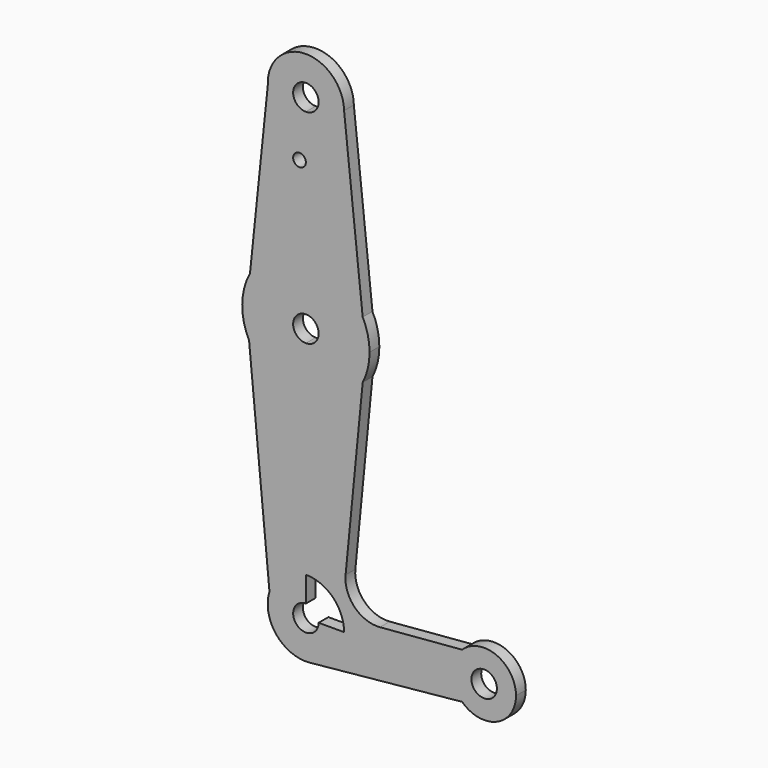
from build123d import *

# Parameters (mm, degrees)
F0_R     = 1.5875
F1_DEPTH = 3.048


with BuildPart() as f1:
    # F0 (on Front) → F1 (new body)
    with BuildSketch(Plane.XZ):
        with BuildLine():
            ThreePointArc((-9.5095663313, 70.0432862662), (-6.5407566171, 63.6611249112), (0, 61.0602947442))
            ThreePointArc((0, 61.0602947442), (6.7351920908, 63.8501026534), (9.525, 70.5852947442))
            ThreePointArc((9.525, 70.5852947442), (9.5245806872, 70.6746688591), (9.5233227858, 70.7640351052))
            ThreePointArc((9.5233227858, 70.7640351052), (-0.3604400536, 80.1034725093), (-9.5095663313, 70.0432862662))
        make_face()
        with BuildLine():
            ThreePointArc((3.175, 70.5852947442), (2.2450640303, 68.3402307139), (0, 67.4102947442))
            ThreePointArc((0, 67.4102947442), (-2.2450640303, 72.8303587744), (3.175, 70.5852947442))
        make_face(mode=Mode.SUBTRACT)
        with BuildLine():
            ThreePointArc((9.525, 70.5852947442), (6.7351920908, 63.8501026534), (0, 61.0602947442))
            Line((0, 61.0602947442), (0, 56.3104947442))
            Line((0, 56.3104947442), (0, 35.6602947442))
            ThreePointArc((0, 35.6602947442), (8.3101303729, 33.311467824), (14.1611668333, 26.9600406573))
            Line((14.1611668333, 26.9600406573), (9.5233227858, 70.7640351052))
            ThreePointArc((9.5233227858, 70.7640351052), (9.5245806872, 70.6746688591), (9.525, 70.5852947442))
        make_face()
        with BuildLine():
            Line((0, 56.3104947442), (0, 61.0602947442))
            ThreePointArc((0, 61.0602947442), (-6.5407566171, 63.6611249112), (-9.5095663313, 70.0432862662))
            Line((-9.5095663313, 70.0432862662), (-13.9389716008, 27.3827084956))
            ThreePointArc((-13.9389716008, 27.3827084956), (-8.1057597329, 33.4349205322), (0, 35.6602947442))
            Line((0, 35.6602947442), (0, 56.3104947442))
        make_face()
        with Locations((-1.5875, 56.3104947442)):
            Circle(F0_R, mode=Mode.SUBTRACT)
        with BuildLine():
            ThreePointArc((14.1611668333, 26.9600406573), (8.3101303729, 33.311467824), (0, 35.6602947442))
            Line((0, 35.6602947442), (0, 22.9602947442))
            ThreePointArc((0, 22.9602947442), (2.2450640303, 22.0303587744), (3.175, 19.7852947442))
            ThreePointArc((3.175, 19.7852947442), (2.2450640303, 17.5402307139), (0, 16.6102947442))
            Line((0, 16.6102947442), (0, 3.9102947442))
            ThreePointArc((0, 3.9102947442), (8.3101303729, 6.2591216643), (14.1611668333, 12.610548831))
            ThreePointArc((14.1611668333, 12.610548831), (15.4405982475, 16.0969955751), (15.875, 19.7852947442))
            ThreePointArc((15.875, 19.7852947442), (15.4405982475, 23.4735939132), (14.1611668333, 26.9600406573))
        make_face()
        with BuildLine():
            Line((0, 22.9602947442), (0, 35.6602947442))
            ThreePointArc((0, 35.6602947442), (-8.1057597329, 33.4349205322), (-13.9389716008, 27.3827084956))
            ThreePointArc((-13.9389716008, 27.3827084956), (-15.8731151109, 20.0299203253), (-14.166468593, 12.621022792))
            ThreePointArc((-14.166468593, 12.621022792), (-8.31513102, 6.262195206), (0, 3.9102947442))
            Line((0, 3.9102947442), (0, 16.6102947442))
            ThreePointArc((0, 16.6102947442), (-3.175, 19.7852947442), (0, 22.9602947442))
        make_face()
        with BuildLine():
            ThreePointArc((0, 3.9102947442), (-8.31513102, 6.262195206), (-14.166468593, 12.621022792))
            Line((-14.166468593, 12.621022792), (-9.0839344232, -40.84978634))
            ThreePointArc((-9.0839344232, -40.84978634), (-5.6319300567, -36.0331045869), (0, -34.1897052558))
            Line((0, -34.1897052558), (0, 0))
            Line((0, 0), (0, 3.9102947442))
        make_face()
        with BuildLine():
            ThreePointArc((14.1611668333, 12.610548831), (8.3101303729, 6.2591216643), (0, 3.9102947442))
            Line((0, 3.9102947442), (0, 0))
            Line((0, 0), (0, -34.1897052558))
            ThreePointArc((0, -34.1897052558), (6.7351920908, -36.979513165), (9.525, -43.7147052558))
            Line((9.525, -43.7147052558), (36.5125, -43.7147052558))
            ThreePointArc((36.5125, -43.7147052558), (37.1472997839, -40.6043233172), (38.9501631947, -37.9914455758))
            Line((38.9501631947, -37.9914455758), (18.4799116013, -39.7163473726))
            ThreePointArc((18.4799116013, -39.7163473726), (12.1534860854, -37.3783781365), (9.8998108989, -31.0214364103))
            Line((9.8998108989, -31.0214364103), (14.1611668333, 12.610548831))
        make_face()
        with BuildLine():
            ThreePointArc((0, -34.1897052558), (-5.6319300567, -36.0331045869), (-9.0839344232, -40.84978634))
            ThreePointArc((-9.0839344232, -40.84978634), (-7.3950973803, -49.7178843915), (0.9364707331, -53.1935579061))
            ThreePointArc((0.9364707331, -53.1935579061), (7.058523526, -50.1102404667), (9.525, -43.7147052558))
            Line((9.525, -43.7147052558), (3.175, -43.7147052558))
            ThreePointArc((3.175, -43.7147052558), (-2.2450640303, -45.9597692861), (0, -40.5397052558))
            Line((0, -40.5397052558), (0, -34.1897052558))
        make_face()
        with BuildLine():
            ThreePointArc((9.525, -43.7147052558), (7.058523526, -50.1102404667), (0.9364707331, -53.1935579061))
            Line((0.9364707331, -53.1935579061), (38.9501631947, -49.4379649358))
            ThreePointArc((38.9501631947, -49.4379649358), (37.1472997839, -46.8250871944), (36.5125, -43.7147052558))
            Line((36.5125, -43.7147052558), (9.525, -43.7147052558))
        make_face()
        with BuildLine():
            ThreePointArc((36.5125, -43.7147052558), (37.1472997839, -46.8250871944), (38.9501631947, -49.4379649358))
            ThreePointArc((38.9501631947, -49.4379649358), (47.5603819386, -51.0174054719), (52.3875, -43.7147052558))
            ThreePointArc((52.3875, -43.7147052558), (47.5603819386, -36.4120050397), (38.9501631947, -37.9914455758))
            ThreePointArc((38.9501631947, -37.9914455758), (37.1472997839, -40.6043233172), (36.5125, -43.7147052558))
        make_face()
        with BuildLine():
            ThreePointArc((47.625, -43.7147052558), (44.45, -46.8897052558), (41.275, -43.7147052558))
            ThreePointArc((41.275, -43.7147052558), (44.45, -40.5397052558), (47.625, -43.7147052558))
        make_face(mode=Mode.SUBTRACT)
    extrude(amount=F1_DEPTH)


solid = f1.part
